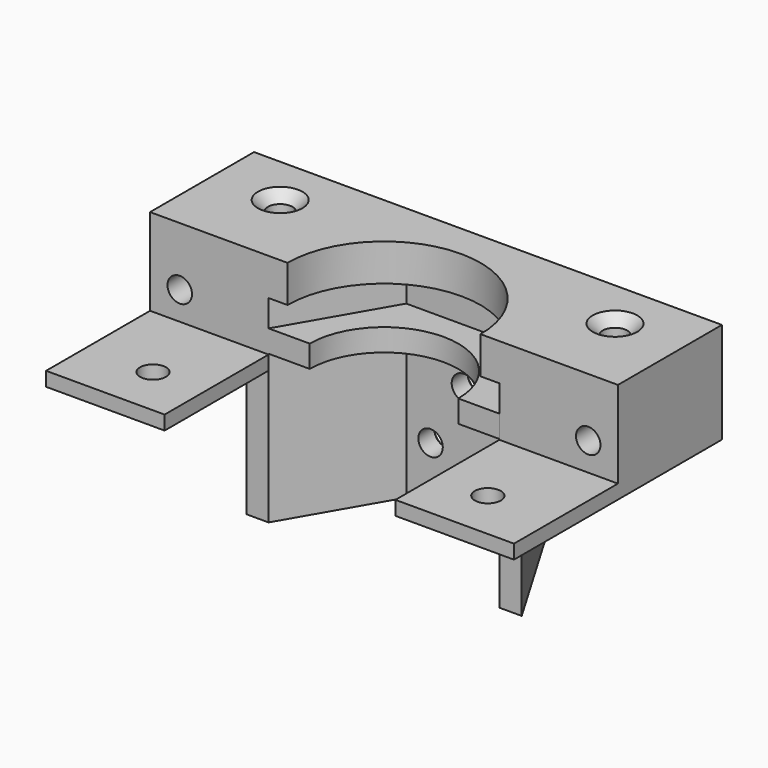
from build123d import *

# Parameters (mm, degrees)
PAD_DEPTH           = 2
PAD001_DEPTH        = 3
PAD002_DEPTH        = 3.6
PAD003_DEPTH        = 5
SKETCH004_W         = 63
SKETCH004_H         = 17.5
POCKET_DEPTH        = 11.7
PAD004_DEPTH        = 18
HOLE_D              = 3.3
HOLE_DEPTH          = 24.00858
HOLE_CSINK_D        = 6
HOLE_CSINK_ANGLE    = 90
HOLE_TIPS_R         = 1.65
SKETCH010_R         = 1.75
POCKET001_DEPTH     = 5
HOLE001_D           = 3.3
HOLE001_DEPTH       = 24.00858
HOLE001_CSINK_D     = 6
HOLE001_CSINK_ANGLE = 90
HOLE001_TIPS_R      = 1.65
HOLE002_D           = 3.3
HOLE002_DEPTH       = 24.00858
HOLE002_CSINK_D     = 6
HOLE002_CSINK_ANGLE = 90
HOLE002_TIPS_R      = 1.65


with BuildPart() as part:
    # Sketch → Pad (new body)
    with BuildSketch(Plane.XY):
        Polygon((-31.5, 17.5), (31.5, 17.5), (31.5, -17.5), (15.54, -17.5), (15.54, 2.8e-05), (7.77, 13.458035), (-7.77, 13.458035), (-15.54, 0), (-15.54, -17.5), (-31.5, -17.5), align=None)
    extrude(amount=PAD_DEPTH)

    # Sketch001 (on Face12 of Pad) → Pad001 (join)
    with BuildSketch(Plane.XY.offset(2)):
        with BuildLine():
            ThreePointArc((10, 2.8e-05), (-1.4e-05, 10), (-10, 0))
            Line((-15.54, 0), (-10, 0))
            Line((-15.54, -17.5), (-15.54, 0))
            Line((-15.54, -17.5), (-31.5, -17.5))
            Line((-31.5, -17.5), (-31.5, 17.5))
            Line((-31.5, 17.5), (31.5, 17.5))
            Line((31.5, 17.5), (31.5, -17.5))
            Line((31.5, -17.5), (15.54, -17.5))
            Line((15.54, -17.5), (15.54, 2.8e-05))
            Line((10, 2.8e-05), (15.54, 2.8e-05))
        make_face()
    extrude(amount=PAD001_DEPTH)

    # Sketch002 (on Face20 of Pad001) → Pad002 (join)
    with BuildSketch(Plane.XY.offset(5)):
        Polygon((15.54, 0), (7.77, 13.458035), (-7.77, 13.458035), (-15.54, 0), (-15.54, -17.5), (-31.5, -17.5), (-31.5, 17.5), (31.5, 17.5), (31.5, -17.5), (15.54, -17.5), align=None)
    extrude(amount=PAD002_DEPTH)

    # Sketch003 (on Face31 of Pad002) → Pad003 (join)
    with BuildSketch(Plane.XY.offset(8.6)):
        with BuildLine():
            Line((-31.5, 17.5), (31.5, 17.5))
            Line((31.5, 17.5), (31.5, -17.5))
            Line((31.5, -17.5), (15.54, -17.5))
            Line((15.54, 0), (15.54, -17.5))
            Line((13, 0), (15.54, 0))
            ThreePointArc((13, 0), (0, 13), (-13, 0))
            Line((-15.54, 0), (-13, 0))
            Line((-15.54, 0), (-15.54, -17.5))
            Line((-15.54, -17.5), (-31.5, -17.5))
            Line((-31.5, -17.5), (-31.5, 17.5))
        make_face()
    extrude(amount=PAD003_DEPTH)

    # Sketch004 (on Face41 of Pad003) → Pocket (cut)
    with BuildSketch(Plane.XY.offset(13.6)):
        with Locations((0, -8.75)):
            Rectangle(SKETCH004_W, SKETCH004_H)
    extrude(amount=-POCKET_DEPTH, mode=Mode.SUBTRACT)

    # Sketch008 (on Face1 of Pocket) → Pad004 (join)
    with BuildSketch(Plane(origin=(0, 0, 0), x_dir=(1, 0, 0), z_dir=(0, 0, -1))):
        Polygon((-7.77, -13.458035), (7.77, -13.458035), (15.54, -2.8e-05), (18.54, 0), (8.23, -17.5), (-7.77, -17.5), (-18.54, 0), (-15.54, 0), align=None)
    extrude(amount=PAD004_DEPTH)

    # Hole
    with Locations(Plane(origin=(0, 17.5, 0), x_dir=(-1, 0, 0), z_dir=(0, 1, 0))):
        with Locations((0, -2.45), (-4.5, -10.45), (4.5, -10.45)):
            CounterSinkHole(HOLE_D / 2, HOLE_CSINK_D / 2, depth=HOLE_DEPTH, counter_sink_angle=HOLE_CSINK_ANGLE)

    # Hole tips → Hole tip 1 section 0
    with BuildSketch(Plane(origin=(0, -6.50858, 0), x_dir=(-1, 0, 0), z_dir=(0, 1, 0)), mode=Mode.PRIVATE) as hole_tip_1_s0:
        with Locations((0, -2.45)):
            Circle(HOLE_TIPS_R)
    loft([hole_tip_1_s0.sketch, Vertex(0, -7.5, -2.45)], mode=Mode.SUBTRACT)

    # Hole tips → Hole tip 2 section 0
    with BuildSketch(Plane(origin=(0, -6.50858, 0), x_dir=(-1, 0, 0), z_dir=(0, 1, 0)), mode=Mode.PRIVATE) as hole_tip_2_s0:
        with Locations((-4.5, -10.45)):
            Circle(HOLE_TIPS_R)
    loft([hole_tip_2_s0.sketch, Vertex(4.5, -7.5, -10.45)], mode=Mode.SUBTRACT)

    # Hole tips → Hole tip 3 section 0
    with BuildSketch(Plane(origin=(0, -6.50858, 0), x_dir=(-1, 0, 0), z_dir=(0, 1, 0)), mode=Mode.PRIVATE) as hole_tip_3_s0:
        with Locations((4.5, -10.45)):
            Circle(HOLE_TIPS_R)
    loft([hole_tip_3_s0.sketch, Vertex(-4.5, -7.5, -10.45)], mode=Mode.SUBTRACT)

    # Sketch010 (on Face32 of Hole) → Pocket001 (cut)
    with BuildSketch(Plane.XY.offset(1.9)):
        with Locations((-22.54, -10.7)):
            Circle(SKETCH010_R)
        with Locations((22.54, -10.7)):
            Circle(SKETCH010_R)
    extrude(amount=-POCKET001_DEPTH, mode=Mode.SUBTRACT)

    # Hole001
    with Locations(Plane.XY.offset(13.6)):
        with Locations((-22.54, 10.7), (22.54, 10.7)):
            CounterSinkHole(HOLE001_D / 2, HOLE001_CSINK_D / 2, depth=HOLE001_DEPTH, counter_sink_angle=HOLE001_CSINK_ANGLE)

    # Hole001 tips → Hole001 tip 1 section 0
    with BuildSketch(Plane.XY.offset(-10.40858), mode=Mode.PRIVATE) as hole001_tip_1_s0:
        with Locations((-22.54, 10.7)):
            Circle(HOLE001_TIPS_R)
    loft([hole001_tip_1_s0.sketch, Vertex(-22.54, 10.7, -11.4)], mode=Mode.SUBTRACT)

    # Hole001 tips → Hole001 tip 2 section 0
    with BuildSketch(Plane.XY.offset(-10.40858), mode=Mode.PRIVATE) as hole001_tip_2_s0:
        with Locations((22.54, 10.7)):
            Circle(HOLE001_TIPS_R)
    loft([hole001_tip_2_s0.sketch, Vertex(22.54, 10.7, -11.4)], mode=Mode.SUBTRACT)

    # Hole002
    with Locations(Plane(origin=(0, 17.5, 0), x_dir=(-1, 0, 0), z_dir=(0, 1, 0))):
        with Locations((-27.5, 5.7), (27.5, 5.7)):
            CounterSinkHole(HOLE002_D / 2, HOLE002_CSINK_D / 2, depth=HOLE002_DEPTH, counter_sink_angle=HOLE002_CSINK_ANGLE)

    # Hole002 tips → Hole002 tip 1 section 0
    with BuildSketch(Plane(origin=(0, -6.50858, 0), x_dir=(-1, 0, 0), z_dir=(0, 1, 0)), mode=Mode.PRIVATE) as hole002_tip_1_s0:
        with Locations((-27.5, 5.7)):
            Circle(HOLE002_TIPS_R)
    loft([hole002_tip_1_s0.sketch, Vertex(27.5, -7.5, 5.7)], mode=Mode.SUBTRACT)

    # Hole002 tips → Hole002 tip 2 section 0
    with BuildSketch(Plane(origin=(0, -6.50858, 0), x_dir=(-1, 0, 0), z_dir=(0, 1, 0)), mode=Mode.PRIVATE) as hole002_tip_2_s0:
        with Locations((27.5, 5.7)):
            Circle(HOLE002_TIPS_R)
    loft([hole002_tip_2_s0.sketch, Vertex(-27.5, -7.5, 5.7)], mode=Mode.SUBTRACT)


solid = part.part
